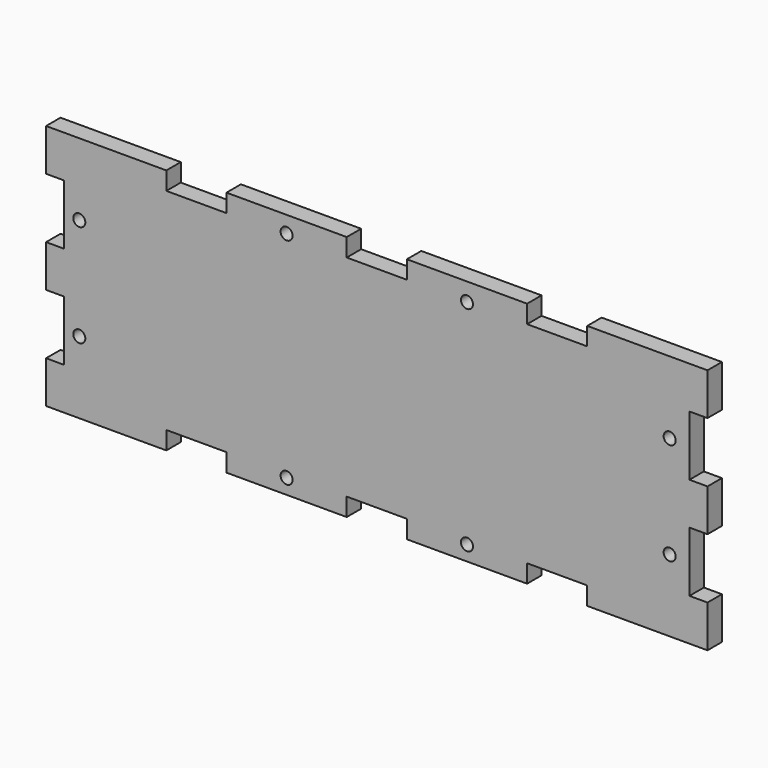
from build123d import *

# Parameters (mm, degrees)
F0_R     = 1
F1_DEPTH = 3


with BuildPart() as f1:
    # F0 (on Front) → F1 (new body)
    with BuildSketch(Plane.XZ):
        Polygon((-51.973995, 1.919852), (-54.973995, 1.919852), (-54.973995, -1.580148), (-54.973995, -5.080148), (-51.973995, -5.080148), (-51.973995, -15.080148), (-54.973995, -15.080148), (-54.973995, -22.080148), (-34.973995, -22.080148), (-34.973995, -19.080148), (-24.973995, -19.080148), (-24.973995, -22.080148), (-4.973995, -22.080148), (-4.973995, -19.080148), (0.026005, -19.080148), (5.026005, -19.080148), (5.026005, -22.080148), (25.026005, -22.080148), (25.026005, -19.080148), (35.026005, -19.080148), (35.026005, -22.080148), (55.026005, -22.080148), (55.026005, -15.080148), (52.026005, -15.080148), (52.026005, -5.080148), (55.026005, -5.080148), (55.026005, -1.580148), (55.026005, 1.919852), (52.026005, 1.919852), (52.026005, 11.919852), (55.026005, 11.919852), (55.026005, 18.919852), (35.026005, 18.919852), (35.026005, 15.919852), (25.026005, 15.919852), (25.026005, 18.919852), (5.026005, 18.919852), (5.026005, 15.919852), (0.026005, 15.919852), (-4.973995, 15.919852), (-4.973995, 18.919852), (-24.973995, 18.919852), (-24.973995, 15.919852), (-34.973995, 15.919852), (-34.973995, 18.919852), (-54.973995, 18.919852), (-54.973995, 11.919852), (-51.973995, 11.919852), align=None)
        with Locations((-14.973995, -19.580148)):
            Circle(F0_R, mode=Mode.SUBTRACT)
        with Locations((-49.451287, -10.080148)):
            Circle(F0_R, mode=Mode.SUBTRACT)
        with Locations((15.026005, -19.580148)):
            Circle(F0_R, mode=Mode.SUBTRACT)
        with Locations((48.736135, -10.080148)):
            Circle(F0_R, mode=Mode.SUBTRACT)
        with Locations((-49.451287, 6.919852)):
            Circle(F0_R, mode=Mode.SUBTRACT)
        with Locations((-14.973995, 16.168253)):
            Circle(F0_R, mode=Mode.SUBTRACT)
        with Locations((48.736135, 6.919852)):
            Circle(F0_R, mode=Mode.SUBTRACT)
        with Locations((15.026005, 15.900204)):
            Circle(F0_R, mode=Mode.SUBTRACT)
    extrude(amount=F1_DEPTH)


solid = f1.part
